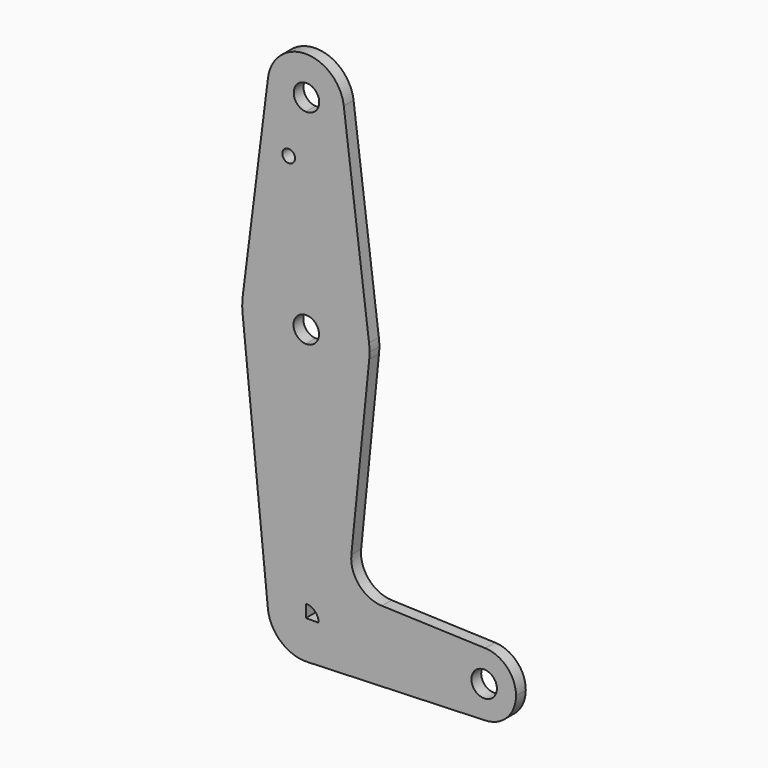
from build123d import *

# Parameters (mm, degrees)
F0_R     = 1.5875
F1_DEPTH = 3.048


with BuildPart() as f1:
    # F0 (on Front) → F1 (new body)
    with BuildSketch(Plane.XZ):
        with BuildLine():
            ThreePointArc((-36.2346206176, 65.5907827398), (-33.7912387486, 58.2921661064), (-26.7506676321, 55.1824590345))
            ThreePointArc((-26.7506676321, 55.1824590345), (-20.0154755413, 57.9722669437), (-17.2256676321, 64.7074590345))
            ThreePointArc((-17.2256676321, 64.7074590345), (-17.2443627379, 65.3039422765), (-17.3003746679, 65.8980840345))
            ThreePointArc((-17.3003746679, 65.8980840345), (-26.9052372626, 74.2312047907), (-36.2346206176, 65.5907827398))
        make_face()
        with BuildLine():
            ThreePointArc((-23.4272714596, 64.7155277529), (-24.4103012097, 62.4185968824), (-26.7506676321, 61.5439975898))
            ThreePointArc((-26.7506676321, 61.5439975898), (-28.7942417094, 67.0124586235), (-23.4272714596, 64.7155277529))
        make_face(mode=Mode.SUBTRACT)
        with BuildLine():
            ThreePointArc((-17.2256676321, 64.7074590345), (-20.0154755413, 57.9722669437), (-26.7506676321, 55.1824590345))
            Line((-26.7506676321, 55.1824590345), (-26.7506676321, 29.7824590345))
            ThreePointArc((-26.7506676321, 29.7824590345), (-16.2503421163, 25.8137090345), (-11.0001793584, 15.8918340345))
            Line((-11.0001793584, 15.8918340345), (-17.3003746679, 65.8980840345))
            ThreePointArc((-17.3003746679, 65.8980840345), (-17.2443627379, 65.3039422765), (-17.2256676321, 64.7074590345))
        make_face()
        with BuildLine():
            Line((-26.7506676321, 29.7824590345), (-26.7506676321, 55.1824590345))
            ThreePointArc((-26.7506676321, 55.1824590345), (-33.7912387486, 58.2921661064), (-36.2346206176, 65.5907827398))
            Line((-36.2346206176, 65.5907827398), (-42.500957093, 15.8934114247))
            ThreePointArc((-42.500957093, 15.8934114247), (-37.2503969335, 25.8142348196), (-26.7506676321, 29.7824590345))
        make_face()
        with Locations((-31.0332517365, 50.4326590345)):
            Circle(F0_R, mode=Mode.SUBTRACT)
        with BuildLine():
            ThreePointArc((-11.0001793584, 15.8918340345), (-16.2503421163, 25.8137090345), (-26.7506676321, 29.7824590345))
            Line((-26.7506676321, 29.7824590345), (-26.7506676321, 16.93121256))
            ThreePointArc((-26.7506676321, 16.93121256), (-24.4441647791, 16.0362043268), (-23.4802285352, 13.7576473127))
            ThreePointArc((-23.4802285352, 13.7576473127), (-24.4441647791, 11.4790902987), (-26.7506676321, 10.5840820655))
            Line((-26.7506676321, 10.5840820655), (-26.7506676321, -1.9675409655))
            ThreePointArc((-26.7506676321, -1.9675409655), (-16.1013938892, 2.1342439362), (-10.955242068, 12.3199590345))
            ThreePointArc((-10.955242068, 12.3199590345), (-10.8955737215, 13.1127124804), (-10.8756676321, 13.9074590345))
            ThreePointArc((-10.8756676321, 13.9074590345), (-10.9068261417, 14.9015977711), (-11.0001793584, 15.8918340345))
        make_face()
        with BuildLine():
            Line((-26.7506676321, 16.93121256), (-26.7506676321, 29.7824590345))
            ThreePointArc((-26.7506676321, 29.7824590345), (-37.2503969335, 25.8142348196), (-42.500957093, 15.8934114247))
            ThreePointArc((-42.500957093, 15.8934114247), (-42.6244014275, 14.107959393), (-42.5460931962, 12.3199590345))
            ThreePointArc((-42.5460931962, 12.3199590345), (-37.3999413749, 2.1342439362), (-26.7506676321, -1.9675409655))
            Line((-26.7506676321, -1.9675409655), (-26.7506676321, 10.5840820655))
            ThreePointArc((-26.7506676321, 10.5840820655), (-29.8302285352, 13.7576473127), (-26.7506676321, 16.93121256))
        make_face()
        with BuildLine():
            ThreePointArc((-26.7506676321, -1.9675409655), (-37.3999413749, 2.1342439362), (-42.5460931962, 12.3199590345))
            Line((-42.5460931962, 12.3199590345), (-36.2279229705, -50.5450409655))
            ThreePointArc((-36.2279229705, -50.5450409655), (-33.814596691, -43.2029767198), (-26.7506676321, -40.0675409655))
            Line((-26.7506676321, -40.0675409655), (-26.7506676321, -1.9675409655))
        make_face()
        with BuildLine():
            ThreePointArc((-10.955242068, 12.3199590345), (-16.1013938892, 2.1342439362), (-26.7506676321, -1.9675409655))
            Line((-26.7506676321, -1.9675409655), (-26.7506676321, -40.0675409655))
            ThreePointArc((-26.7506676321, -40.0675409655), (-20.0154755413, -42.8573488747), (-17.2256676321, -49.5925409655))
            Line((-17.2256676321, -49.5925409655), (9.7618323679, -49.5925409655))
            ThreePointArc((9.7618323679, -49.5925409655), (12.1878095865, -43.8805340608), (17.9828145108, -41.6601047619))
            Line((17.9828145108, -41.6601047619), (-7.7830676316, -40.7393072547))
            ThreePointArc((-7.7830676316, -40.7393072547), (-13.4894677347, -38.0211818156), (-15.4094810398, -31.9991591531))
            Line((-15.4094810398, -31.9991591531), (-10.955242068, 12.3199590345))
        make_face()
        with BuildLine():
            ThreePointArc((-26.7506676321, -40.0675409655), (-33.814596691, -43.2029767198), (-36.2279229705, -50.5450409655))
            ThreePointArc((-36.2279229705, -50.5450409655), (-33.0130510137, -56.7694608746), (-26.4104890607, -59.1114644099))
            ThreePointArc((-26.4104890607, -59.1114644099), (-19.8962593464, -56.2063683032), (-17.2256676321, -49.5925409655))
            Line((-17.2256676321, -49.5925409655), (-23.5756676321, -49.5925409655))
            ThreePointArc((-23.5756676321, -49.5925409655), (-28.9957316624, -51.8376049958), (-26.7506676321, -46.4175409655))
            Line((-26.7506676321, -46.4175409655), (-26.7506676321, -40.0675409655))
        make_face()
        with BuildLine():
            ThreePointArc((-17.2256676321, -49.5925409655), (-19.8962593464, -56.2063683032), (-26.4104890607, -59.1114644099))
            Line((-26.4104890607, -59.1114644099), (17.9828145108, -57.5249771691))
            ThreePointArc((17.9828145108, -57.5249771691), (12.1878095865, -55.3045478702), (9.7618323679, -49.5925409655))
            Line((9.7618323679, -49.5925409655), (-17.2256676321, -49.5925409655))
        make_face()
        with BuildLine():
            ThreePointArc((9.7618323679, -49.5925409655), (12.1878095865, -55.3045478702), (17.9828145108, -57.5249771691))
            ThreePointArc((17.9828145108, -57.5249771691), (23.4113392726, -55.104063747), (25.6368323679, -49.5925409655))
            ThreePointArc((25.6368323679, -49.5925409655), (23.4113392726, -44.081018184), (17.9828145108, -41.6601047619))
            ThreePointArc((17.9828145108, -41.6601047619), (12.1878095865, -43.8805340608), (9.7618323679, -49.5925409655))
        make_face()
        with BuildLine():
            ThreePointArc((20.8743323679, -49.5925409655), (17.6993323679, -52.7675409655), (14.5243323679, -49.5925409655))
            ThreePointArc((14.5243323679, -49.5925409655), (17.6993323679, -46.4175409655), (20.8743323679, -49.5925409655))
        make_face(mode=Mode.SUBTRACT)
        with BuildLine():
            ThreePointArc((-17.2256676321, -49.5925409655), (-20.0154755413, -42.8573488747), (-26.7506676321, -40.0675409655))
            Line((-26.7506676321, -40.0675409655), (-26.7506676321, -46.4175409655))
            ThreePointArc((-26.7506676321, -46.4175409655), (-24.5056036018, -47.3474769352), (-23.5756676321, -49.5925409655))
            Line((-23.5756676321, -49.5925409655), (-17.2256676321, -49.5925409655))
        make_face()
        with BuildLine():
            Line((-26.7506676321, -49.5925409655), (-26.7506676321, -46.4175409655))
            ThreePointArc((-26.7506676321, -46.4175409655), (-28.9957316624, -51.8376049958), (-23.5756676321, -49.5925409655))
            Line((-23.5756676321, -49.5925409655), (-26.7506676321, -49.5925409655))
        make_face()
    extrude(amount=F1_DEPTH)


solid = f1.part
